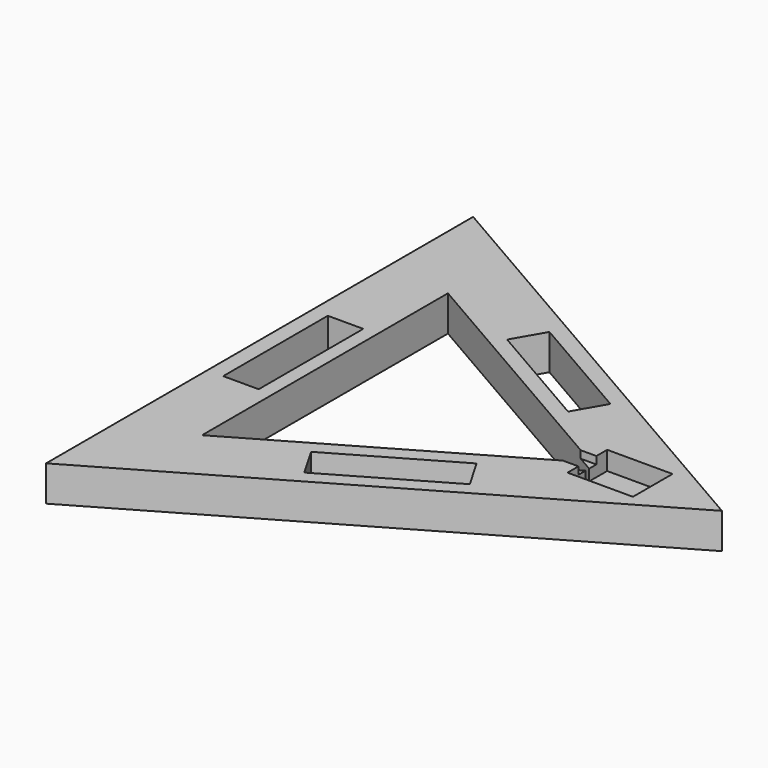
from build123d import *

# Parameters (mm, degrees)
BOX004_W               = 10
BOX004_H               = 12
BOX004_DEPTH           = 4
BOX003_W               = 35
BOX003_H               = 26.5
BOX003_DEPTH           = 10
BOX002_W               = 70
BOX002_H               = 19
BOX002_DEPTH           = 19
BOX002_PLACEMENT_ANGLE = 30
BOX001_W               = 70
BOX001_H               = 19
BOX001_DEPTH           = 19
BOX001_PLACEMENT_ANGLE = 90
BOX_W                  = 70
BOX_H                  = 19
BOX_DEPTH              = 19
BOX_PLACEMENT_ANGLE    = 30
PRISM001_DEPTH         = 19
PRISM_DEPTH            = 19


with BuildPart() as box004:
    # Box004 → Box004 (new body)
    with BuildSketch(Plane(origin=(84, -6, 15), x_dir=(1, 0, 0), z_dir=(0, 0, 1))):
        with Locations((5, 6)):
            Rectangle(BOX004_W, BOX004_H)
    extrude(amount=BOX004_DEPTH)


with BuildPart() as box003:
    # Box003 → Box003 (new body)
    with BuildSketch(Plane(origin=(93, -13.3, 9), x_dir=(1, 0, 0), z_dir=(0, 0, 1))):
        with Locations((17.5, 13.25)):
            Rectangle(BOX003_W, BOX003_H)
    extrude(amount=BOX003_DEPTH)


with BuildPart() as box002:
    # Box002 → Box002 (new body)
    with BuildSketch(Plane.XY):
        with Locations((35, 9.5)):
            Rectangle(BOX002_W, BOX002_H)
    extrude(amount=BOX002_DEPTH)


with BuildPart() as box002_1:
    # Box002 placement: moved
    add(box002.part.moved(Location((7, -82, 0))).rotate(Axis((7, -82, 0), (0, 0, 1)), BOX002_PLACEMENT_ANGLE))


with BuildPart() as box001:
    # Box001 → Box001 (new body)
    with BuildSketch(Plane.XY):
        with Locations((35, 9.5)):
            Rectangle(BOX001_W, BOX001_H)
    extrude(amount=BOX001_DEPTH)


with BuildPart() as box001_1:
    # Box001 placement: moved
    add(box001.part.moved(Location((-55, -35, 0))).rotate(Axis((-55, -35, 0), (0, 0, 1)), BOX001_PLACEMENT_ANGLE))


with BuildPart() as box:
    # Box → Box (new body)
    with BuildSketch(Plane.XY):
        with Locations((35, 9.5)):
            Rectangle(BOX_W, BOX_H)
    extrude(amount=BOX_DEPTH)


with BuildPart() as box_1:
    # Box placement: moved
    add(box.part.moved(Location((-2, 65, 0))).rotate(Axis((-2, 65, 0), (0, 0, -1)), BOX_PLACEMENT_ANGLE))


with BuildPart() as prism001:
    # Prism001 → Prism001 (new body)
    with BuildSketch(Plane.XY):
        Polygon((95, 0), (-47.5, 82.272413), (-47.5, -82.272413), align=None)
    extrude(amount=PRISM001_DEPTH)


with BuildPart() as cut005:
    # Prism → Prism (new body)
    with BuildSketch(Plane.XY):
        Polygon((165, 0), (-82.5, 142.894192), (-82.5, -142.894192), align=None)
    extrude(amount=PRISM_DEPTH)

    # Cut: cut Prism001
    add(prism001.part, mode=Mode.SUBTRACT)

    # Cut001: cut Box
    add(box_1.part, mode=Mode.SUBTRACT)

    # Cut002: cut Box001
    add(box001_1.part, mode=Mode.SUBTRACT)

    # Cut003: cut Box002
    add(box002_1.part, mode=Mode.SUBTRACT)

    # Cut004: cut Box003
    add(box003.part, mode=Mode.SUBTRACT)

    # Cut005: cut Box004
    add(box004.part, mode=Mode.SUBTRACT)


solid = cut005.part
